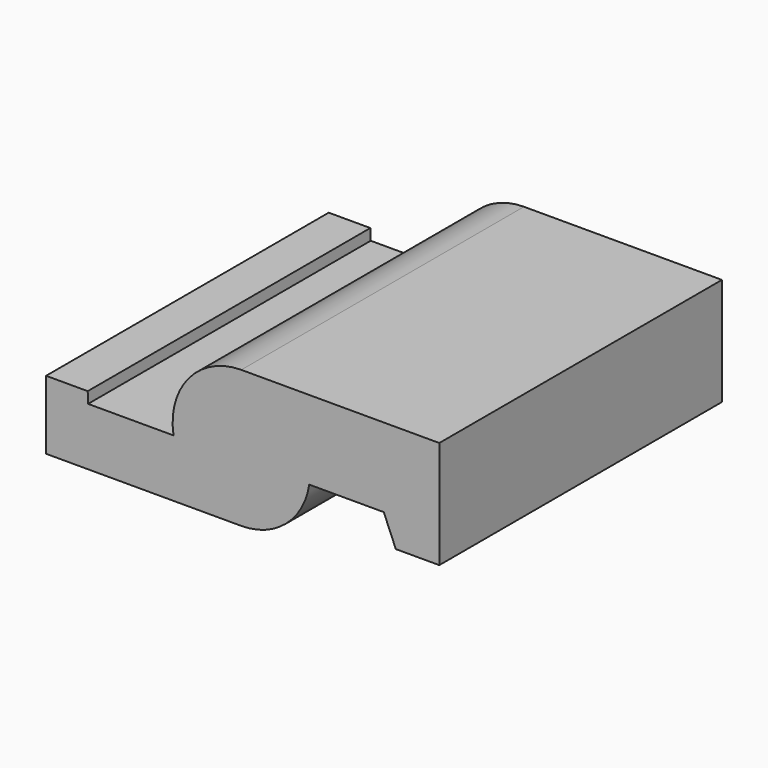
from build123d import *

# Parameters (mm, degrees)
F1_DEPTH = 101.6


with BuildPart() as f1:
    # F0 (on Front) → F1 (new body)
    with BuildSketch(Plane.XZ):
        with BuildLine():
            ThreePointArc((0, -19.754416), (-12.792259, -15.053074), (-19.495674, -3.186789))
            Line((-19.495674, -3.186789), (-44.064047, -3.186789))
            Line((-44.064047, -3.186789), (-44.169664, 0))
            Line((-44.169664, 0), (-56.14337, 0))
            Line((-56.14337, 0), (-56.14337, -19.754416))
            Line((-56.14337, -19.754416), (0, -19.754416))
        make_face()
        with BuildLine():
            ThreePointArc((19.534622, -2.938621), (19.699391, -1.473415), (19.754416, 0))
            ThreePointArc((19.754416, 0), (13.968481, 13.968481), (0, 19.754416))
            ThreePointArc((0, 19.754416), (-15.053074, 12.792259), (-19.495674, -3.186789))
            ThreePointArc((-19.495674, -3.186789), (-12.792259, -15.053074), (0, -19.754416))
            ThreePointArc((0, -19.754416), (12.887711, -14.971434), (19.534622, -2.938621))
        make_face()
        with BuildLine():
            ThreePointArc((0, 19.754416), (13.968481, 13.968481), (19.754416, 0))
            ThreePointArc((19.754416, 0), (19.699391, -1.473415), (19.534622, -2.938621))
            Line((19.534622, -2.938621), (40.976677, -2.938621))
            Line((40.976677, -2.938621), (44.435747, -11.17319))
            Line((44.435747, -11.17319), (56.941614, -11.17319))
            Line((56.941614, -11.17319), (56.941614, 19.754416))
            Line((56.941614, 19.754416), (0, 19.754416))
        make_face()
    extrude(amount=F1_DEPTH)


solid = f1.part
